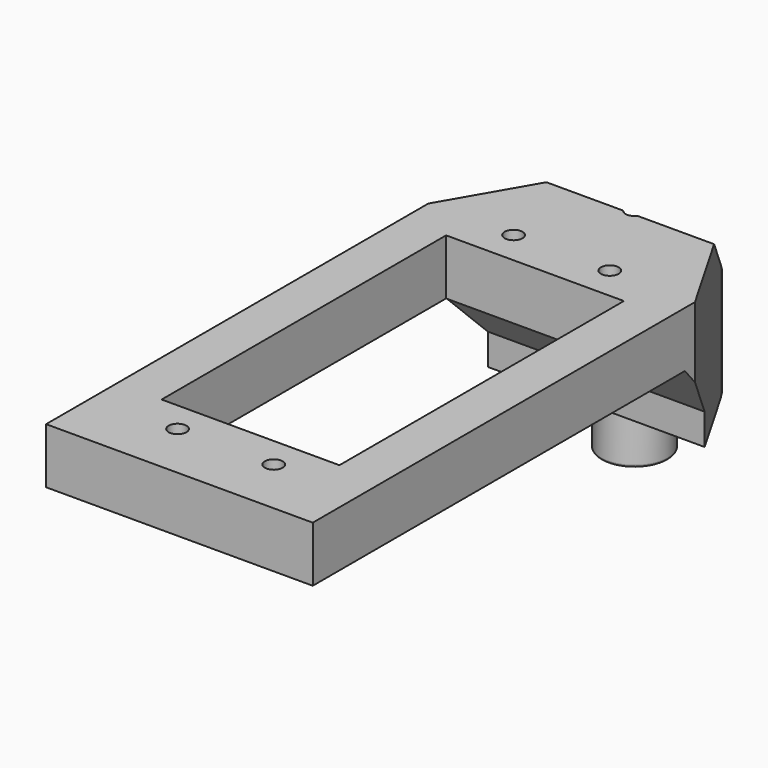
from build123d import *

# Parameters (mm, degrees)
F0_R           = 1.016
F0_W           = 20.32
F0_H           = 40.64
F2_DEPTH       = 17.526
F3_START       = -25.4
F3_DEPTH       = 40.641
F4_R           = 3.81
F5_DEPTH       = 6.35
F7_D           = 2.032
F7_CSINK_D     = 3.175
F7_CSINK_ANGLE = 82
F8_R           = 0.254


with BuildPart() as f2:
    # F0 (on Top) → F2 (new body, through all)
    with BuildSketch(Plane.XY):
        with BuildLine():
            Line((-15.24, -40.64), (15.24, -40.64))
            Line((15.24, -40.64), (15.24, 13.97))
            Line((15.24, 13.97), (7.62, 27.1682271537))
            ThreePointArc((7.62, 27.1682271537), (0, 31.6135833353), (-7.62, 27.1682271537))
            Line((-7.62, 27.1682271537), (-15.24, 13.97))
            Line((-15.24, 13.97), (-15.24, -40.64))
        make_face()
        with Locations((-5.4991, -34.036)):
            Circle(F0_R, mode=Mode.SUBTRACT)
        with Locations((5.4991, -34.036)):
            Circle(F0_R, mode=Mode.SUBTRACT)
        with Locations((0, -10.16)):
            Rectangle(F0_W, F0_H, mode=Mode.SUBTRACT)
        with Locations((-5.4991, 13.97)):
            Circle(F0_R, mode=Mode.SUBTRACT)
        with Locations((5.4991, 13.97)):
            Circle(F0_R, mode=Mode.SUBTRACT)
    extrude(amount=F2_DEPTH)

    # F1 (on Right) → F3 (intersect)
    with BuildSketch(Plane.YZ.offset(F3_START)):
        Polygon((18.9135833353, 3.556), (18.9135833353, 0), (31.6135833353, 0), (31.6135833353, 8.1784219752), (23.7700340623, 17.526), (-40.64, 17.526), (-40.64, 11.176), (12.5196441457, 11.176), align=None)
    extrude(amount=F3_DEPTH, mode=Mode.INTERSECT)

    # F4 (on face) → F5 (join)
    with BuildSketch(Plane.XY):
        with Locations((0, 24.3734540549)):
            Circle(F4_R)
    extrude(amount=-F5_DEPTH)

    # F7 (through all)
    with Locations(Plane(origin=(0, 0, -6.35), x_dir=(1, 0, 0), z_dir=(0, 0, -1))):
        with Locations((0, -24.3734540549)):
            CounterSinkHole(F7_D / 2, F7_CSINK_D / 2, counter_sink_angle=F7_CSINK_ANGLE)

    # F8
    f8_edges = [f2.edges().sort_by_distance(p)[0] for p in [
        (-3.81, 24.373454, -6.35),
    ]]
    fillet(f8_edges, radius=F8_R)


solid = f2.part
